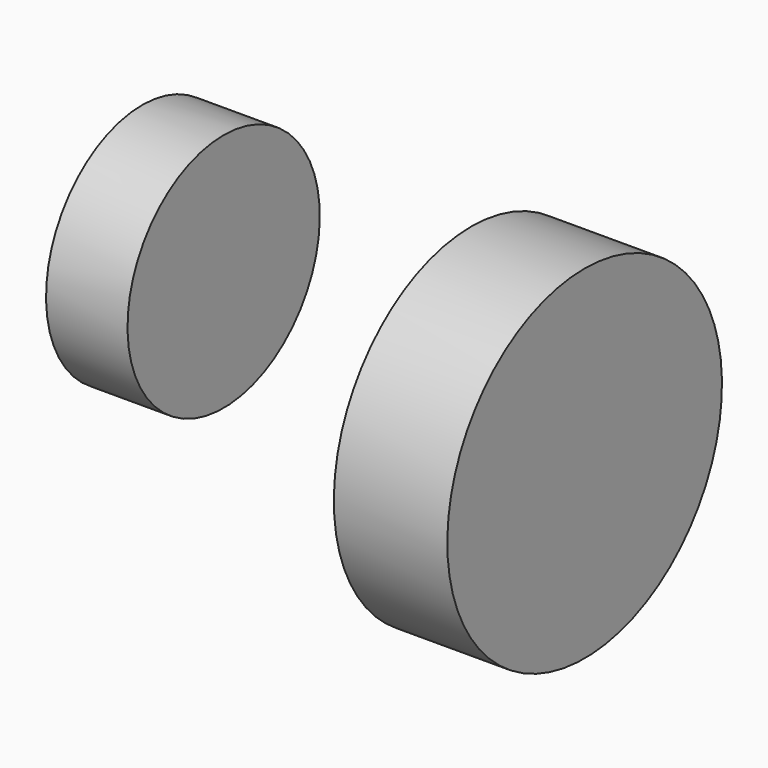
from build123d import *

# Parameters (mm, degrees)
F0_W   = 167.879841
F0_H   = 254
F0_W_2 = 120.568238
F0_H_2 = 177.8


with BuildPart() as f1:
    # F0 (on Front) → F1 (revolve)
    with BuildSketch(Plane.XZ):
        with Locations((280.217332, 50.8)):
            Rectangle(F0_W, F0_H)
    revolve(axis=Axis((280.217332, 0, -76.2), (1, 0, 0)))


with BuildPart() as f2:
    # F0 (on Front) → F2 (revolve)
    with BuildSketch(Plane.XZ):
        with Locations((-230.28997, 88.9)):
            Rectangle(F0_W_2, F0_H_2)
    revolve(axis=Axis((-230.28997, 0, 0), (1, 0, 0)))


solid = Compound([f1.part, f2.part])
